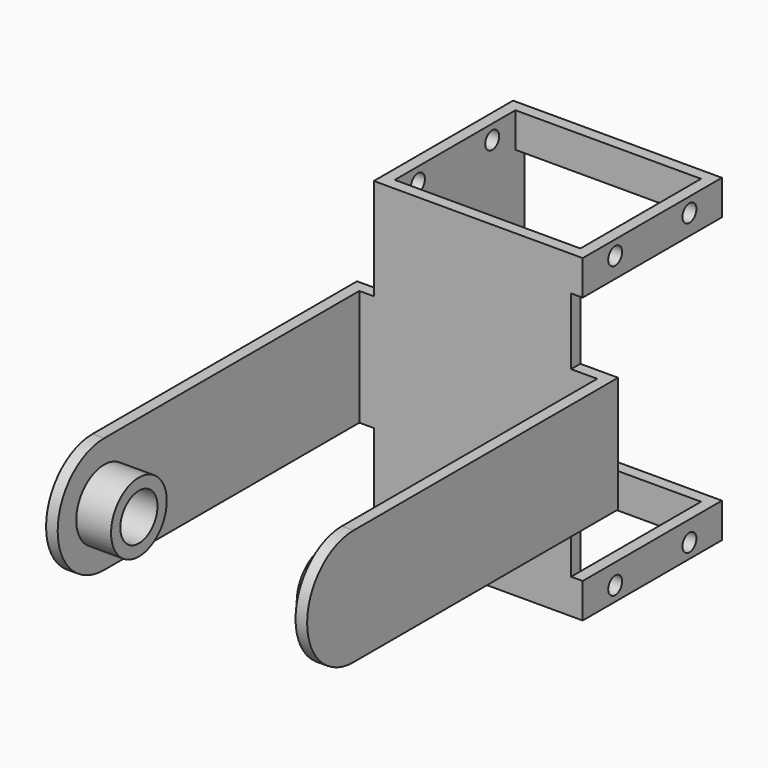
from build123d import *

# Parameters (mm, degrees)
F1_DEPTH  = 10
F2_R      = 10
F3_DEPTH  = 2
F5_DEPTH  = 2
F6_R      = 6
F6_R_2    = 4
F7_DEPTH  = 6
F8_R      = 6
F9_DEPTH  = 3
F10_W     = 32
F10_H     = 17.5
F11_DEPTH = 2
F13_DEPTH = 6
F15_DEPTH = 6
F16_R     = 1.5
F17_DEPTH = 50.8
F18_R     = 1.5
F19_DEPTH = 50.8
F20_W     = 2
F20_H     = 30
F21_DEPTH = 43
F22_R     = 4
F23_DEPTH = 3


with BuildPart() as f1:
    # F0 (on Top) → F1 (new body, symmetric)
    with BuildSketch(Plane.XY):
        Polygon((22.5, -27.5), (22.5, 29.5), (-22.5, 29.5), (-22.5, -27.5), (-20.5, -27.5), (-20.5, 27.5), (20.5, 27.5), (20.5, -27.5), align=None)
    extrude(amount=F1_DEPTH, both=True)

    # F2 (on face) → F3 (join)
    with BuildSketch(Plane(origin=(-22.5, 0, 0), x_dir=(0, -1, 0), z_dir=(-1, 0, 0))):
        with Locations((27.5, 0)):
            Circle(F2_R)
    extrude(amount=-F3_DEPTH)

    # F4 (on face) → F5 (join)
    with BuildSketch(Plane(origin=(20.5, 0, 0), x_dir=(0, -1, 0), z_dir=(-1, 0, 0))):
        with BuildLine():
            Line((27.5, 10), (27.5, -10))
            ThreePointArc((27.5, -10), (37.5, 0), (27.5, 10))
        make_face()
    extrude(amount=-F5_DEPTH)

    # F6 (on face) → F7 (join)
    with BuildSketch(Plane.YZ.offset(-20.5)):
        with Locations((-27.5, 0)):
            Circle(F6_R)
        with Locations((-27.5, 0)):
            Circle(F6_R_2, mode=Mode.SUBTRACT)
    extrude(amount=F7_DEPTH)

    # F8 (on face) → F9 (join)
    with BuildSketch(Plane(origin=(20.5, 0, 0), x_dir=(0, -1, 0), z_dir=(-1, 0, 0))):
        with Locations((27.5, 0)):
            Circle(F8_R)
    extrude(amount=F9_DEPTH)

    # F10 (on face) → F11 (join)
    with BuildSketch(Plane.XZ.offset(-27.5)):
        with Locations((0, -18.75)):
            Rectangle(F10_W, F10_H)
        with Locations((0, 18.75)):
            Rectangle(F10_W, F10_H)
    extrude(amount=-F11_DEPTH)

    # F12 (on face) → F13 (join)
    with BuildSketch(Plane(origin=(0, 0, -27.5), x_dir=(1, 0, 0), z_dir=(0, 0, -1))):
        Polygon((18, -57.5), (18, -27.5), (16, -27.5), (16, -29.5), (16, -55.5), (-16, -55.5), (-16, -29.5), (-16, -27.5), (-18, -27.5), (-18, -57.5), align=None)
    extrude(amount=-F13_DEPTH)

    # F14 (on face) → F15 (join)
    with BuildSketch(Plane.XY.offset(27.5)):
        Polygon((-16, 27.5), (-16, 55.5), (16, 55.5), (16, 27.5), (18, 27.5), (18, 57.5), (-18, 57.5), (-18, 27.5), align=None)
    extrude(amount=-F15_DEPTH)

    # F16 (on face) → F17 (cut)
    with BuildSketch(Plane(origin=(-18, 0, 0), x_dir=(0, -1, 0), z_dir=(-1, 0, 0))):
        with Locations((-50.5, 25)):
            Circle(F16_R)
        with Locations((-34.5, 25)):
            Circle(F16_R)
    extrude(amount=-F17_DEPTH, mode=Mode.SUBTRACT)

    # F18 (on face) → F19 (cut)
    with BuildSketch(Plane(origin=(-18, 0, 0), x_dir=(0, -1, 0), z_dir=(-1, 0, 0))):
        with Locations((-50.5, -25)):
            Circle(F18_R)
        with Locations((-34.5, -25)):
            Circle(F18_R)
    extrude(amount=-F19_DEPTH, mode=Mode.SUBTRACT)

    # F20 (on face) → F21 (join)
    with BuildSketch(Plane(origin=(0, 0, 21.5), x_dir=(1, 0, 0), z_dir=(0, 0, -1))):
        with Locations((-17, -42.5)):
            Rectangle(F20_W, F20_H)
    extrude(amount=F21_DEPTH)

    # F22 (on face) → F23 (join)
    with BuildSketch(Plane(origin=(-18, 0, 0), x_dir=(0, -1, 0), z_dir=(-1, 0, 0))):
        with Locations((-42.5, 11)):
            Circle(F22_R)
        with Locations((-42.5, -11)):
            Circle(F22_R)
    extrude(amount=F23_DEPTH)


solid = f1.part
